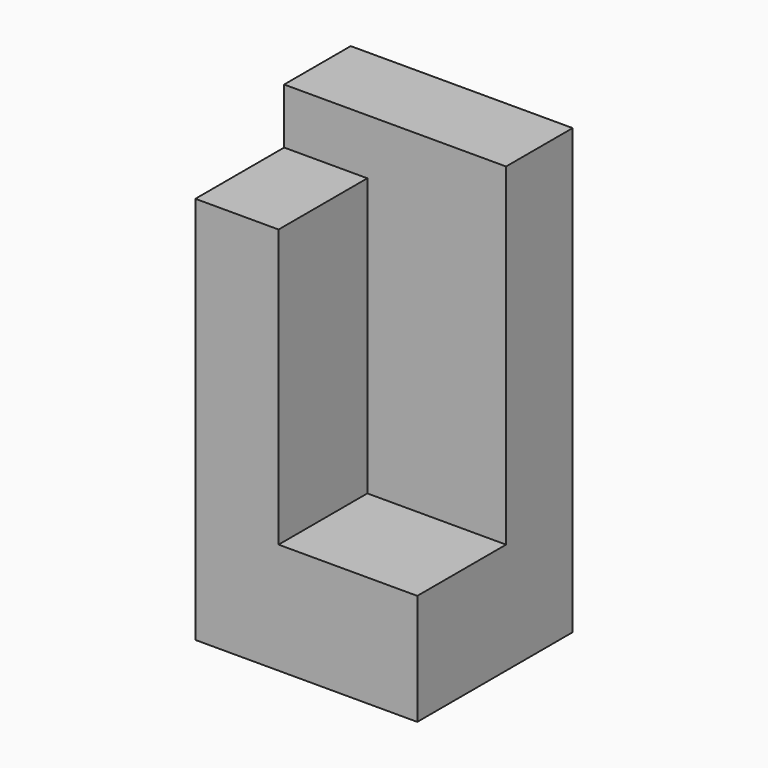
from build123d import *

# Parameters (mm, degrees)
F1_DEPTH = 8
F0_W     = 1.5
F0_H     = 2
F2_DEPTH = 7
F0_W_2   = 2.5
F3_DEPTH = 2


with BuildPart() as f1:
    # F0 (on Top) → F1 (new body)
    with BuildSketch(Plane.XY):
        Polygon((-2.5, 2), (0, 2), (0, 3.5), (-4, 3.5), (-4, 2), align=None)
    extrude(amount=F1_DEPTH)

    # F0 (on Top) → F2 (join)
    with BuildSketch(Plane.XY):
        with Locations((-3.25, 1)):
            Rectangle(F0_W, F0_H)
    extrude(amount=F2_DEPTH)

    # F0 (on Top) → F3 (join)
    with BuildSketch(Plane.XY):
        with Locations((-1.25, 1)):
            Rectangle(F0_W_2, F0_H)
    extrude(amount=F3_DEPTH)


solid = f1.part
